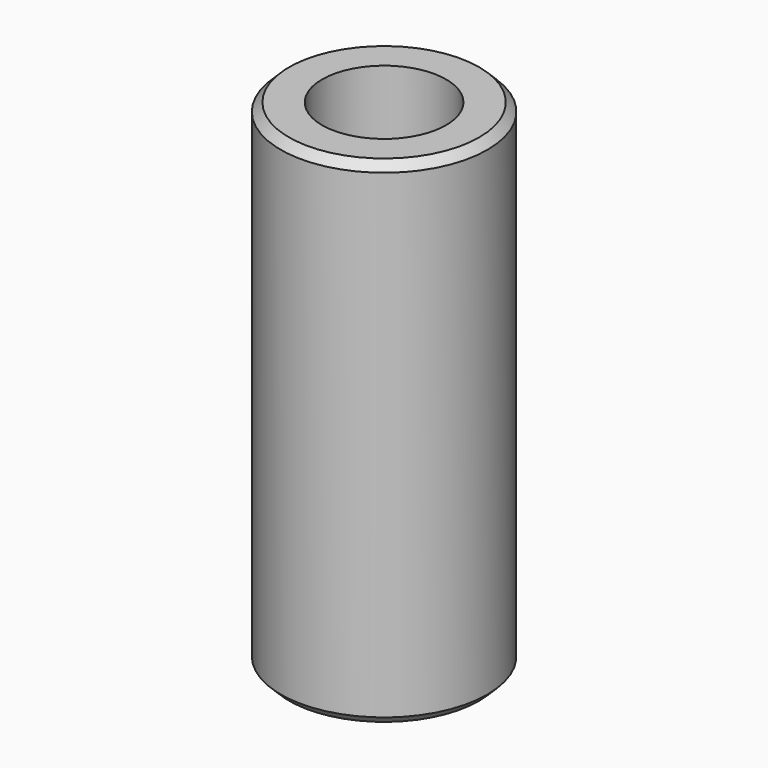
from build123d import *

# Parameters (mm, degrees)
F0_R     = 2.5
F1_DEPTH = 12
F2_SIZE  = 0.2
F3_D     = 3


with BuildPart() as f1:
    # F0 (on Top) → F1 (new body)
    with BuildSketch(Plane.XY):
        Circle(F0_R)
    extrude(amount=F1_DEPTH)

    # F2
    f2_edges = [f1.edges().sort_by_distance(p)[0] for p in [
        (-2.5, 0, 12),
        (-2.5, 0, 0),
    ]]
    chamfer(f2_edges, length=F2_SIZE)

    # F3 (through all)
    with Locations(Plane(origin=(0, 0, 0), x_dir=(1, 0, 0), z_dir=(0, 0, -1))):
        with Locations((0, 0)):
            Hole(F3_D / 2)


solid = f1.part
